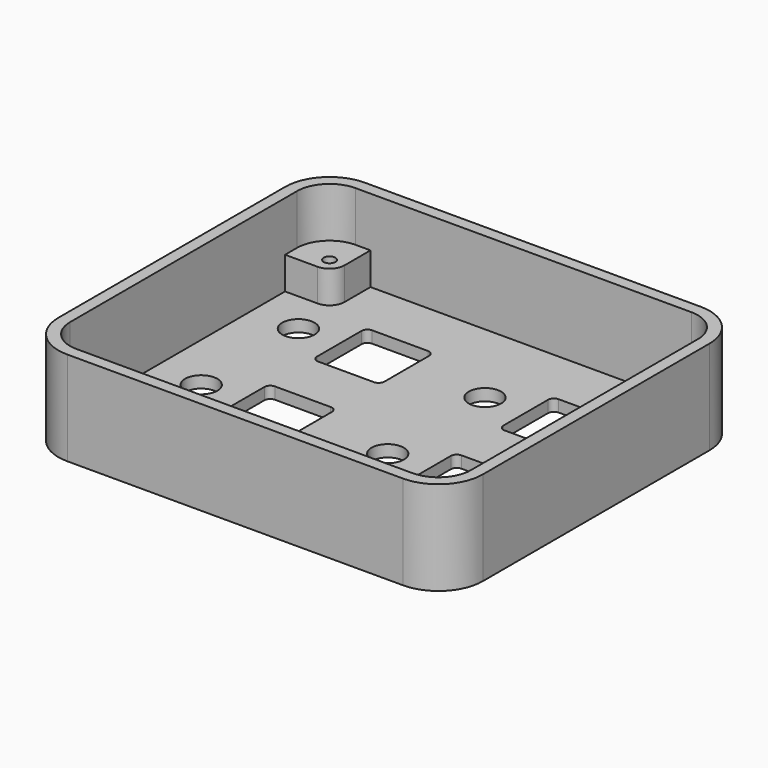
from build123d import *

# Parameters (mm, degrees)
F1_DEPTH = 16
F2_T     = -2
F3_W     = 41.64
F3_H     = 10.8
F3_R     = 2.75
F4_DEPTH = 16.001
F5_R     = 1
F6_DEPTH = 5.5


with BuildPart() as f1:
    # F0 (on Top) → F1 (new body)
    with BuildSketch(Plane.XY):
        with BuildLine():
            ThreePointArc((36.115, 24.13), (33.906585, 29.461585), (28.575, 31.67))
            Line((28.575, 31.67), (-28.575, 31.67))
            ThreePointArc((-28.575, 31.67), (-33.906585, 29.461585), (-36.115, 24.13))
            Line((-36.115, 24.13), (-36.115, -24.13))
            ThreePointArc((-36.115, -24.13), (-33.906585, -29.461585), (-28.575, -31.67))
            Line((-28.575, -31.67), (28.575, -31.67))
            ThreePointArc((28.575, -31.67), (33.906585, -29.461585), (36.115, -24.13))
            Line((36.115, -24.13), (36.115, 24.13))
        make_face()
    extrude(amount=F1_DEPTH)

    # F2
    f2_openings = [f1.faces().sort_by_distance(p)[0] for p in [
        (0, 0, 16),
    ]]
    offset(amount=F2_T, openings=f2_openings)

    # F3 (on Top) → F4 (cut, through all)
    with BuildSketch(Plane.XY):
        with Locations((-0.635, -19.162)):
            Rectangle(F3_W, F3_H)
        with BuildLine():
            Line((-8.585, -0.6), (-18.085, -0.6))
            ThreePointArc((-18.085, -0.6), (-18.792107, -0.892893), (-19.085, -1.6))
            Line((-19.085, -1.6), (-19.085, -11.1))
            ThreePointArc((-19.085, -11.1), (-18.792107, -11.807107), (-18.085, -12.1))
            Line((-18.085, -12.1), (-8.585, -12.1))
            ThreePointArc((-8.585, -12.1), (-7.877893, -11.807107), (-7.585, -11.1))
            Line((-7.585, -11.1), (-7.585, -1.6))
            ThreePointArc((-7.585, -1.6), (-7.877893, -0.892893), (-8.585, -0.6))
        make_face()
        with Locations((-26.035, -6.35)):
            Circle(F3_R)
        with BuildLine():
            Line((-8.585, 20.08), (-18.085, 20.08))
            ThreePointArc((-18.085, 20.08), (-18.792107, 19.787107), (-19.085, 19.08))
            Line((-19.085, 19.08), (-19.085, 9.58))
            ThreePointArc((-19.085, 9.58), (-18.792107, 8.872893), (-18.085, 8.58))
            Line((-18.085, 8.58), (-8.585, 8.58))
            ThreePointArc((-8.585, 8.58), (-7.877893, 8.872893), (-7.585, 9.58))
            Line((-7.585, 9.58), (-7.585, 19.08))
            ThreePointArc((-7.585, 19.08), (-7.877893, 19.787107), (-8.585, 20.08))
        make_face()
        with Locations((-26.035, 14.33)):
            Circle(F3_R)
        with BuildLine():
            Line((23.165, -0.6), (13.665, -0.6))
            ThreePointArc((13.665, -0.6), (12.957893, -0.892893), (12.665, -1.6))
            Line((12.665, -1.6), (12.665, -11.1))
            ThreePointArc((12.665, -11.1), (12.957893, -11.807107), (13.665, -12.1))
            Line((13.665, -12.1), (23.165, -12.1))
            ThreePointArc((23.165, -12.1), (23.872107, -11.807107), (24.165, -11.1))
            Line((24.165, -11.1), (24.165, -1.6))
            ThreePointArc((24.165, -1.6), (23.872107, -0.892893), (23.165, -0.6))
        make_face()
        with Locations((5.715, -6.35)):
            Circle(F3_R)
        with BuildLine():
            Line((23.165, 20.08), (13.665, 20.08))
            ThreePointArc((13.665, 20.08), (12.957893, 19.787107), (12.665, 19.08))
            Line((12.665, 19.08), (12.665, 9.58))
            ThreePointArc((12.665, 9.58), (12.957893, 8.872893), (13.665, 8.58))
            Line((13.665, 8.58), (23.165, 8.58))
            ThreePointArc((23.165, 8.58), (23.872107, 8.872893), (24.165, 9.58))
            Line((24.165, 9.58), (24.165, 19.08))
            ThreePointArc((24.165, 19.08), (23.872107, 19.787107), (23.165, 20.08))
        make_face()
        with Locations((5.715, 14.33)):
            Circle(F3_R)
    extrude(amount=F4_DEPTH, mode=Mode.SUBTRACT)

    # F5 (on face) → F6 (join)
    with BuildSketch(Plane.XY.offset(2)):
        with BuildLine():
            Line((-34.115, 24.13), (-34.115, 21.59))
            Line((-34.115, 21.59), (-28.575, 21.59))
            ThreePointArc((-28.575, 21.59), (-26.778949, 22.333949), (-26.035, 24.13))
            Line((-26.035, 24.13), (-26.035, 29.67))
            Line((-26.035, 29.67), (-28.575, 29.67))
            ThreePointArc((-28.575, 29.67), (-32.492372, 28.047372), (-34.115, 24.13))
        make_face()
        with Locations((-28.575, 24.13)):
            Circle(F5_R, mode=Mode.SUBTRACT)
        with BuildLine():
            Line((28.575, 21.59), (34.115, 21.59))
            Line((34.115, 21.59), (34.115, 24.13))
            ThreePointArc((34.115, 24.13), (32.492372, 28.047372), (28.575, 29.67))
            Line((28.575, 29.67), (26.035, 29.67))
            Line((26.035, 29.67), (26.035, 24.13))
            ThreePointArc((26.035, 24.13), (26.778949, 22.333949), (28.575, 21.59))
        make_face()
        with Locations((28.575, 24.13)):
            Circle(F5_R, mode=Mode.SUBTRACT)
        with BuildLine():
            Line((26.035, -24.13), (26.035, -29.67))
            Line((26.035, -29.67), (28.575, -29.67))
            ThreePointArc((28.575, -29.67), (32.492372, -28.047372), (34.115, -24.13))
            Line((34.115, -24.13), (34.115, -21.59))
            Line((34.115, -21.59), (28.575, -21.59))
            ThreePointArc((28.575, -21.59), (26.778949, -22.333949), (26.035, -24.13))
        make_face()
        with Locations((28.575, -24.13)):
            Circle(F5_R, mode=Mode.SUBTRACT)
        with BuildLine():
            Line((-34.115, -21.59), (-34.115, -24.13))
            ThreePointArc((-34.115, -24.13), (-32.492372, -28.047372), (-28.575, -29.67))
            Line((-28.575, -29.67), (-26.035, -29.67))
            Line((-26.035, -29.67), (-26.035, -24.13))
            ThreePointArc((-26.035, -24.13), (-26.778949, -22.333949), (-28.575, -21.59))
            Line((-28.575, -21.59), (-34.115, -21.59))
        make_face()
        with Locations((-28.575, -24.13)):
            Circle(F5_R, mode=Mode.SUBTRACT)
    extrude(amount=F6_DEPTH)


solid = f1.part
